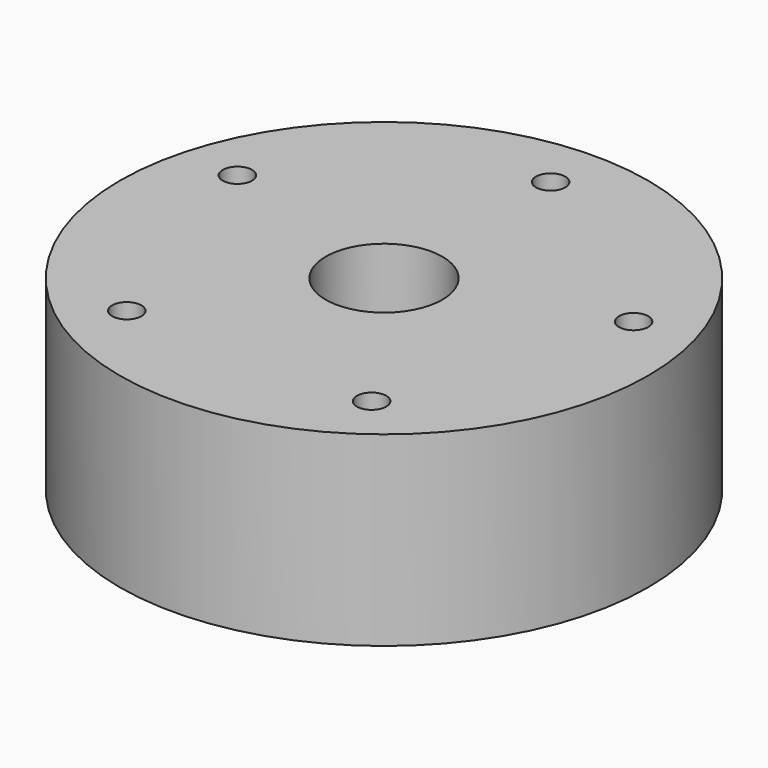
from build123d import *

# Parameters (mm, degrees)
F0_R     = 36
F0_R_2   = 2
F0_R_3   = 7.95
F1_DEPTH = 25.4


with BuildPart() as f1:
    # F0 (on Top) → F1 (new body)
    with BuildSketch(Plane.XY):
        Circle(F0_R)
        with Locations((-16.686918, -22.967572)):
            Circle(F0_R_2, mode=Mode.SUBTRACT)
        with Locations((16.686918, -22.967572)):
            Circle(F0_R_2, mode=Mode.SUBTRACT)
        with Locations((-27, 8.772832)):
            Circle(F0_R_2, mode=Mode.SUBTRACT)
        Circle(F0_R_3, mode=Mode.SUBTRACT)
        with Locations((27, 8.772832)):
            Circle(F0_R_2, mode=Mode.SUBTRACT)
        with Locations((0, 28.38948)):
            Circle(F0_R_2, mode=Mode.SUBTRACT)
    extrude(amount=F1_DEPTH)


solid = f1.part
